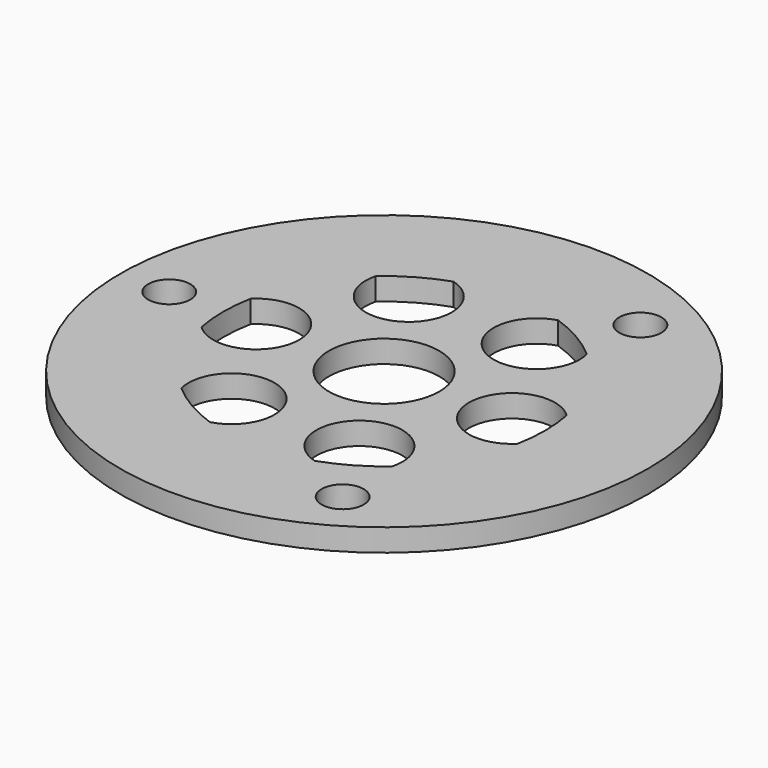
from build123d import *

# Parameters (mm, degrees)
F0_R     = 72.898
F0_R_2   = 5.8166
F0_R_3   = 15.24
F1_DEPTH = 6.1976


with BuildPart() as f1:
    # F0 (on Top) → F1 (new body)
    with BuildSketch(Plane.XY):
        Circle(F0_R)
        with BuildLine():
            ThreePointArc((-29.158214, -33.549979), (-11.7221, -20.303273), (-14.476027, -42.026743))
            ThreePointArc((-14.476027, -42.026743), (-22.225, -38.494829), (-29.158214, -33.549979))
        make_face(mode=Mode.SUBTRACT)
        with Locations((29.6672, -51.385098)):
            Circle(F0_R_2, mode=Mode.SUBTRACT)
        with BuildLine():
            ThreePointArc((14.476027, -42.026743), (11.7221, -20.303273), (29.158214, -33.549979))
            ThreePointArc((29.158214, -33.549979), (22.225, -38.494829), (14.476027, -42.026743))
        make_face(mode=Mode.SUBTRACT)
        with Locations((-59.3344, 0)):
            Circle(F0_R_2, mode=Mode.SUBTRACT)
        with BuildLine():
            ThreePointArc((-43.634241, 8.476764), (-23.4442, 0), (-43.634241, -8.476764))
            ThreePointArc((-43.634241, -8.476764), (-44.45, 0), (-43.634241, 8.476764))
        make_face(mode=Mode.SUBTRACT)
        with BuildLine():
            ThreePointArc((-29.158214, 33.549979), (-22.225, 38.494829), (-14.476027, 42.026743))
            ThreePointArc((-14.476027, 42.026743), (-11.7221, 20.303273), (-29.158214, 33.549979))
        make_face(mode=Mode.SUBTRACT)
        Circle(F0_R_3, mode=Mode.SUBTRACT)
        with BuildLine():
            ThreePointArc((43.634241, -8.476764), (23.4442, 0), (43.634241, 8.476764))
            ThreePointArc((43.634241, 8.476764), (44.45, 0), (43.634241, -8.476764))
        make_face(mode=Mode.SUBTRACT)
        with BuildLine():
            ThreePointArc((29.158214, 33.549979), (11.7221, 20.303273), (14.476027, 42.026743))
            ThreePointArc((14.476027, 42.026743), (22.225, 38.494829), (29.158214, 33.549979))
        make_face(mode=Mode.SUBTRACT)
        with Locations((29.6672, 51.385098)):
            Circle(F0_R_2, mode=Mode.SUBTRACT)
    extrude(amount=F1_DEPTH)


solid = f1.part
